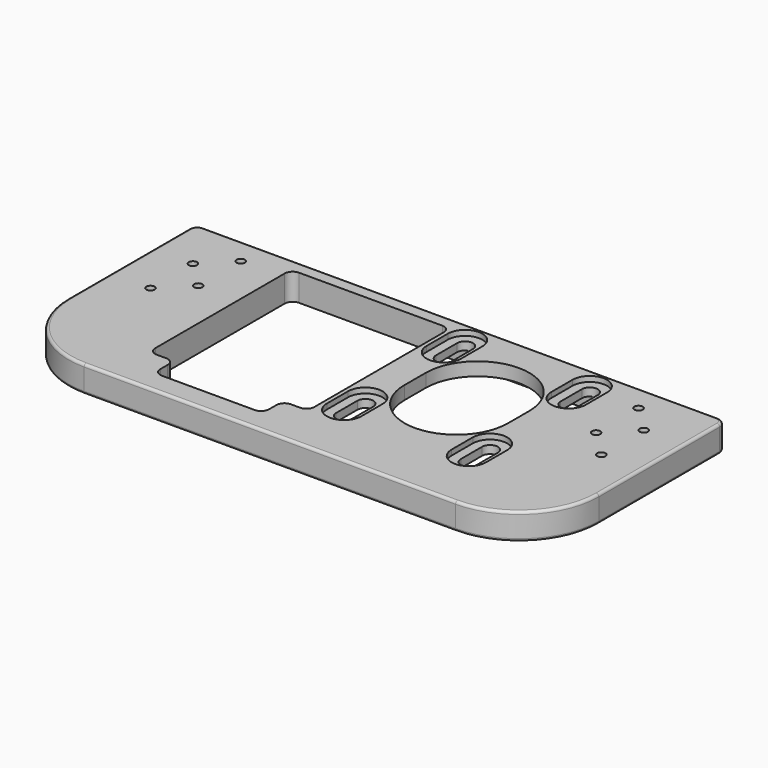
from build123d import *

# Parameters (mm, degrees)
SKETCH_W        = 200
SKETCH_H        = 90
SKETCH_W_2      = 60
SKETCH_H_2      = 67
PAD_DEPTH       = 5
SKETCH001_W     = 200
SKETCH001_H     = 90
SKETCH001_W_2   = 124
SKETCH001_H_2   = 67
PAD001_DEPTH    = 5
SKETCH002_W     = 41
SKETCH002_H     = 9.5
POCKET_DEPTH    = 10.001
SKETCH003_R     = 1.5625
POCKET001_DEPTH = 10.001
FILLET_R        = 30
FILLET001_R     = 3
FILLET002_R     = 3
POCKET002_DEPTH = 2
FILLET003_R     = 1
FILLET004_R     = 1


with BuildPart() as part:
    # Sketch → Pad (new body)
    with BuildSketch(Plane.XY):
        with Locations((100, -45)):
            Rectangle(SKETCH_W, SKETCH_H)
        with Locations((70, -38.5)):
            Rectangle(SKETCH_W_2, SKETCH_H_2, mode=Mode.SUBTRACT)
        with BuildLine():
            ThreePointArc((158.0113, -7.9887), (155.0113, -4.9887), (152.0113, -7.9887))
            Line((152.0113, -7.9887), (152.0113, -17.9887))
            ThreePointArc((152.0113, -17.9887), (155.0113, -20.9887), (158.0113, -17.9887))
            Line((158.0113, -7.9887), (158.0113, -17.9887))
        make_face(mode=Mode.SUBTRACT)
        with BuildLine():
            ThreePointArc((151, -31.5), (131.5, -12), (112, -31.5))
            Line((112, -31.5), (112, -41.5))
            ThreePointArc((112, -41.5), (131.5, -61), (151, -41.5))
            Line((151, -31.5), (151, -41.5))
        make_face(mode=Mode.SUBTRACT)
        with BuildLine():
            ThreePointArc((158.0113, -55.0113), (155.0113, -52.0113), (152.0113, -55.0113))
            Line((152.0113, -55.0113), (152.0113, -65.0113))
            ThreePointArc((152.0113, -65.0113), (155.0113, -68.0113), (158.0113, -65.0113))
            Line((158.0113, -55.0113), (158.0113, -65.0113))
        make_face(mode=Mode.SUBTRACT)
        with BuildLine():
            ThreePointArc((110.9887, -55.0113), (107.9887, -52.0113), (104.9887, -55.0113))
            Line((104.9887, -55.0113), (104.9887, -65.0113))
            ThreePointArc((104.9887, -65.0113), (107.9887, -68.0113), (110.9887, -65.0113))
            Line((110.9887, -55.0113), (110.9887, -65.0113))
        make_face(mode=Mode.SUBTRACT)
        with BuildLine():
            ThreePointArc((110.9887, -7.9887), (107.9887, -4.9887), (104.9887, -7.9887))
            Line((104.9887, -7.9887), (104.9887, -17.9887))
            ThreePointArc((104.9887, -17.9887), (107.9887, -20.9887), (110.9887, -17.9887))
            Line((110.9887, -7.9887), (110.9887, -17.9887))
        make_face(mode=Mode.SUBTRACT)
    extrude(amount=PAD_DEPTH)

    # Sketch001 → Pad001 (join)
    with BuildSketch(Plane(origin=(0, 0, 0), x_dir=(1, 0, 0), z_dir=(0, 0, -1))):
        with Locations((100, 45)):
            Rectangle(SKETCH001_W, SKETCH001_H)
        with Locations((102, 38.5)):
            Rectangle(SKETCH001_W_2, SKETCH001_H_2, mode=Mode.SUBTRACT)
    extrude(amount=PAD001_DEPTH)

    # Sketch002 → Pocket (cut, through all)
    with BuildSketch(Plane.XY.offset(5)):
        with Locations((70, -76.75)):
            Rectangle(SKETCH002_W, SKETCH002_H)
    extrude(amount=-POCKET_DEPTH, mode=Mode.SUBTRACT)

    # Sketch003 → Pocket001 (cut, through all)
    with BuildSketch(Plane.XY.offset(5)):
        with Locations((25, -10)):
            Circle(SKETCH003_R)
        with Locations((15, -20)):
            Circle(SKETCH003_R)
        with Locations((15, -40)):
            Circle(SKETCH003_R)
        with Locations((25, -30)):
            Circle(SKETCH003_R)
        with Locations((175, -10)):
            Circle(SKETCH003_R)
        with Locations((185, -20)):
            Circle(SKETCH003_R)
        with Locations((185, -40)):
            Circle(SKETCH003_R)
        with Locations((175, -30)):
            Circle(SKETCH003_R)
    extrude(amount=-POCKET001_DEPTH, mode=Mode.SUBTRACT)

    # Fillet
    fillet_edges = [part.edges().sort_by_distance(p)[0] for p in [
        (0, -90, 2.5),
        (0, -90, -2.5),
        (200, -90, 2.5),
        (200, -90, -2.5),
    ]]
    fillet(fillet_edges, radius=FILLET_R)

    # Fillet001
    fillet001_edges = [part.edges().sort_by_distance(p)[0] for p in [
        (100, -5, 2.5),
        (40, -5, 2.5),
        (40, -5, -2.5),
        (49.5, -81.5, 0),
        (49.5, -72, 2.5),
        (49.5, -72, -2.5),
        (40, -72, 2.5),
        (40, -72, -2.5),
        (200, 0, 2.5),
        (200, 0, -2.5),
        (0, 0, 2.5),
        (0, 0, -2.5),
        (90.5, -81.5, 0),
        (90.5, -72, 2.5),
        (90.5, -72, -2.5),
    ]]
    fillet(fillet001_edges, radius=FILLET001_R)

    # Fillet002
    fillet002_edges = [part.edges().sort_by_distance(p)[0] for p in [
        (100, -72, 2.5),
    ]]
    fillet(fillet002_edges, radius=FILLET002_R)

    # Sketch004 (on Face1 of Fillet002) → Pocket002 (cut)
    with BuildSketch(Plane.XY.offset(5)):
        with BuildLine():
            ThreePointArc((161.5113, -7.9887), (155.0113, -1.4887), (148.5113, -7.9887))
            Line((148.5113, -7.9887), (148.5113, -17.9887))
            ThreePointArc((148.5113, -17.9887), (155.0113, -24.4887), (161.5113, -17.9887))
            Line((161.5113, -7.9887), (161.5113, -17.9887))
        make_face()
        with BuildLine():
            ThreePointArc((114.4887, -7.9887), (107.9887, -1.4887), (101.4887, -7.9887))
            Line((101.4887, -7.9887), (101.4887, -17.9887))
            ThreePointArc((101.4887, -17.9887), (107.9887, -24.4887), (114.4887, -17.9887))
            Line((114.4887, -7.9887), (114.4887, -17.9887))
        make_face()
        with BuildLine():
            ThreePointArc((114.4887, -55.0113), (107.9887, -48.5113), (101.4887, -55.0113))
            Line((101.4887, -55.0113), (101.4887, -65.0113))
            ThreePointArc((101.4887, -65.0113), (107.9887, -71.5113), (114.4887, -65.0113))
            Line((114.4887, -55.0113), (114.4887, -65.0113))
        make_face()
        with BuildLine():
            ThreePointArc((161.5113, -55.0113), (155.0113, -48.5113), (148.5113, -55.0113))
            Line((148.5113, -55.0113), (148.5113, -65.0113))
            ThreePointArc((148.5113, -65.0113), (155.0113, -71.5113), (161.5113, -65.0113))
            Line((161.5113, -55.0113), (161.5113, -65.0113))
        make_face()
    extrude(amount=-POCKET002_DEPTH, mode=Mode.SUBTRACT)

    # Fillet003
    fillet003_edges = [part.edges().sort_by_distance(p)[0] for p in [
        (200, -31.5, 5),
        (8.786797, -81.213203, 5),
        (100, -90, 5),
        (191.213203, -81.213203, 5),
        (0, -31.5, 5),
        (0.87868, -0.87868, 5),
        (100, 0, 5),
        (199.12132, -0.87868, 5),
    ]]
    fillet(fillet003_edges, radius=FILLET003_R)

    # Fillet004
    fillet004_edges = [part.edges().sort_by_distance(p)[0] for p in [
        (0, -31.5, -5),
        (8.786797, -81.213203, -5),
        (100, -90, -5),
        (191.213203, -81.213203, -5),
        (200, -31.5, -5),
        (0.87868, -0.87868, -5),
        (100, 0, -5),
        (199.12132, -0.87868, -5),
    ]]
    fillet(fillet004_edges, radius=FILLET004_R)


solid = part.part
